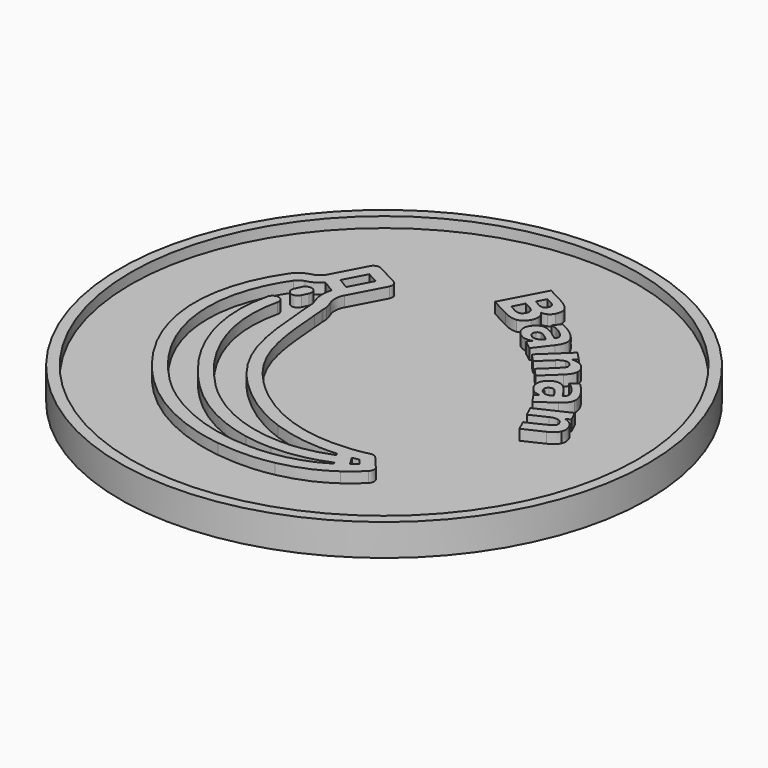
from build123d import *

# Parameters (mm, degrees)
SKETCH_R         = 25
PAD_DEPTH        = 2
SKETCH001_R      = 25
SKETCH001_R_2    = 24
PAD001_DEPTH     = 3
EXTRUDE_DEPTH    = 1
EXTRUDE001_DEPTH = 1


with BuildPart() as body:
    # Sketch → Pad (new body)
    with BuildSketch(Plane.XY):
        Circle(SKETCH_R)
    extrude(amount=PAD_DEPTH)

    # Sketch001 → Pad001 (join)
    with BuildSketch(Plane.XY):
        Circle(SKETCH001_R)
        Circle(SKETCH001_R_2, mode=Mode.SUBTRACT)
    extrude(amount=PAD001_DEPTH)


with BuildPart() as banana:
    # Clone → Extrude (new body)
    with BuildSketch(Plane(origin=(-4.033065, -2.621356, 2), x_dir=(0, 1, 0), z_dir=(0, 0, 1))):
        with BuildLine():
            add(Edge.make_bspline(
                [(-10.418645, -13.683667), (-9.190311, -12.642682)],
                knots=[0, 0, 27.819273, 27.819273], degree=1))
            add(Edge.make_bspline(
                [(-9.190311, -12.642682), (-9.019978, -12.498278), (-8.945779, -12.270356), (-8.998274, -12.053316)],
                knots=[0, 0, 0, 0, 1, 1, 1, 1], degree=3))
            add(Edge.make_bspline(
                [(-8.998274, -12.053316), (-9.134865, -11.489936), (-9.234588, -10.907515), (-9.294606, -10.322084)],
                knots=[0, 0, 0, 0, 1, 1, 1, 1], degree=3))
            add(Edge.make_bspline(
                [(-9.294606, -10.322084), (-9.740147, -5.982604), (-8.269943, -1.984137), (-5.044026, 1.241665)],
                knots=[0, 0, 0, 0, 1, 1, 1, 1], degree=3))
            add(Edge.make_bspline(
                [(-5.044026, 1.241665), (-1.834314, 4.451435), (1.354215, 4.704012), (5.767258, 5.053534)],
                knots=[0, 0, 0, 0, 1, 1, 1, 1], degree=3))
            add(Edge.make_bspline(
                [(5.767258, 5.053534), (6.082922, 5.078537), (6.403911, 5.103946), (6.730629, 5.131032)],
                knots=[0, 0, 0, 0, 1, 1, 1, 1], degree=3))
            add(Edge.make_bspline(
                [(6.730629, 5.131032), (6.767902, 5.1341), (6.815014, 5.135257), (6.864905, 5.136646)],
                knots=[0, 0, 0, 0, 1, 1, 1, 1], degree=3))
            add(Edge.make_bspline(
                [(6.864905, 5.136646), (6.996171, 5.140119), (7.159501, 5.14446), (7.343147, 5.183701)],
                knots=[0, 0, 0, 0, 1, 1, 1, 1], degree=3))
            add(Edge.make_bspline(
                [(7.343147, 5.183701), (7.592656, 5.23689), (7.841182, 5.311494), (8.081837, 5.405429)],
                knots=[0, 0, 0, 0, 1, 1, 1, 1], degree=3))
            add(Edge.make_bspline(
                [(8.081837, 5.405429), (8.579005, 5.599435), (9.141805, 5.563782), (9.625951, 5.307385)],
                knots=[0, 0, 0, 0, 1, 1, 1, 1], degree=3))
            add(Edge.make_bspline(
                [(9.625951, 5.307385), (12.81911, 3.616726)],
                knots=[0, 0, 62.426931, 62.426931], degree=1))
            add(Edge.make_bspline(
                [(12.81911, 3.616726), (12.957553, 3.543453), (13.119262, 3.528173), (13.268876, 3.574243)],
                knots=[0, 0, 0, 0, 1, 1, 1, 1], degree=3))
            add(Edge.make_bspline(
                [(13.268876, 3.574243), (13.418489, 3.620198), (13.543736, 3.723799), (13.616951, 3.862242)],
                knots=[0, 0, 0, 0, 1, 1, 1, 1], degree=3))
            add(Edge.make_bspline(
                [(13.616951, 3.862242), (14.732597, 5.969446)],
                knots=[0, 0, 41.195954, 41.195954], degree=1))
            add(Edge.make_bspline(
                [(14.732597, 5.969446), (14.885162, 6.257386), (14.775195, 6.614722), (14.487139, 6.767345)],
                knots=[0, 0, 0, 0, 1, 1, 1, 1], degree=3))
            add(Edge.make_bspline(
                [(14.487139, 6.767345), (11.424204, 8.389072)],
                knots=[0, 0, 59.881154, 59.881154], degree=1))
            add(Edge.make_bspline(
                [(11.424204, 8.389072), (11.088862, 8.56664), (10.843114, 8.895037), (10.749989, 9.290109)],
                knots=[0, 0, 0, 0, 1, 1, 1, 1], degree=3))
            add(Edge.make_bspline(
                [(10.749989, 9.290109), (10.6079, 9.893366), (10.271979, 10.388797), (9.778631, 10.72275)],
                knots=[0, 0, 0, 0, 1, 1, 1, 1], degree=3))
            add(Edge.make_bspline(
                [(9.778631, 10.72275), (3.541348, 14.945955), (-3.791383, 13.858379), (-9.836224, 7.81348)],
                knots=[0, 0, 0, 0, 1, 1, 1, 1], degree=3))
            add(Edge.make_bspline(
                [(-9.836224, 7.81348), (-12.445052, 5.204595), (-14.164303, 1.677424), (-14.677213, -2.118297)],
                knots=[0, 0, 0, 0, 1, 1, 1, 1], degree=3))
            add(Edge.make_bspline(
                [(-14.677213, -2.118297), (-14.780409, -2.882338), (-14.831978, -3.638102), (-14.831978, -4.382117)],
                knots=[0, 0, 0, 0, 1, 1, 1, 1], degree=3))
            add(Edge.make_bspline(
                [(-14.831978, -4.382117), (-14.831978, -5.419224), (-14.731734, -6.433585), (-14.531593, -7.415014)],
                knots=[0, 0, 0, 0, 1, 1, 1, 1], degree=3))
            add(Edge.make_bspline(
                [(-14.531593, -7.415014), (-14.173853, -9.169396), (-13.513181, -10.730526), (-12.568042, -12.055168)],
                knots=[0, 0, 0, 0, 1, 1, 1, 1], degree=3))
            add(Edge.make_bspline(
                [(-12.568042, -12.055168), (-12.162494, -12.623409), (-11.708271, -13.160281), (-11.21776, -13.650735)],
                knots=[0, 0, 0, 0, 1, 1, 1, 1], degree=3))
            add(Edge.make_bspline(
                [(-11.21776, -13.650735), (-11.000546, -13.867949), (-10.653049, -13.882245), (-10.418645, -13.683667)],
                knots=[0, 0, 0, 0, 1, 1, 1, 1], degree=3))
        make_face()
        with BuildLine():
            add(Edge.make_bspline(
                [(13.413106, 6.000178), (12.849843, 4.936332)],
                knots=[0, 0, 20.798389, 20.798389], degree=1))
            add(Edge.make_bspline(
                [(12.849843, 4.936332), (10.733263, 6.056956)],
                knots=[0, 0, 41.379366, 41.379366], degree=1))
            add(Edge.make_bspline(
                [(10.733263, 6.056956), (10.985203, 6.469102)],
                knots=[0, 0, 8.346092, 8.346092], degree=1))
            add(Edge.make_bspline(
                [(10.985203, 6.469102), (11.362275, 7.086018)],
                knots=[0, 0, 12.492378, 12.492378], degree=1))
            add(Edge.make_bspline(
                [(11.362275, 7.086018), (13.413106, 6.000178)],
                knots=[0, 0, 40.094183, 40.094183], degree=1))
        make_face(mode=Mode.SUBTRACT)
        with BuildLine():
            add(Edge.make_bspline(
                [(-13.656312, -4.389931), (-13.656023, -0.359863), (-12.030707, 3.949347), (-9.001399, 6.978713)],
                knots=[0, 0, 0, 0, 1, 1, 1, 1], degree=3))
            add(Edge.make_bspline(
                [(-9.001399, 6.978713), (-3.388151, 12.591904), (3.385021, 13.626117), (9.116918, 9.745142)],
                knots=[0, 0, 0, 0, 1, 1, 1, 1], degree=3))
            add(Edge.make_bspline(
                [(9.116918, 9.745142), (9.424826, 9.536725), (9.550131, 9.235357), (9.601005, 9.0193)],
                knots=[0, 0, 0, 0, 1, 1, 1, 1], degree=3))
            add(Edge.make_bspline(
                [(9.601005, 9.0193), (9.722085, 8.505869), (9.988842, 8.050662), (10.359374, 7.708896)],
                knots=[0, 0, 0, 0, 1, 1, 1, 1], degree=3))
            add(Edge.make_bspline(
                [(10.359374, 7.708896), (9.661603, 6.56732)],
                knots=[0, 0, 23.116732, 23.116732], degree=1))
            add(Edge.make_bspline(
                [(9.661603, 6.56732), (9.004809, 6.774984), (8.29662, 6.756637), (7.652791, 6.505275)],
                knots=[0, 0, 0, 0, 1, 1, 1, 1], degree=3))
            add(Edge.make_bspline(
                [(7.652791, 6.505275), (7.471345, 6.434491), (7.284285, 6.378292), (7.096762, 6.338299)],
                knots=[0, 0, 0, 0, 1, 1, 1, 1], degree=3))
            add(Edge.make_bspline(
                [(7.096762, 6.338299), (7.019553, 6.321804), (6.933548, 6.319604), (6.83394, 6.316942)],
                knots=[0, 0, 0, 0, 1, 1, 1, 1], degree=3))
            add(Edge.make_bspline(
                [(6.83394, 6.316942), (6.769928, 6.315264), (6.703832, 6.313527), (6.633626, 6.307739)],
                knots=[0, 0, 0, 0, 1, 1, 1, 1], degree=3))
            add(Edge.make_bspline(
                [(6.633626, 6.307739), (6.308065, 6.280884), (5.988408, 6.255476), (5.674075, 6.230589)],
                knots=[0, 0, 0, 0, 1, 1, 1, 1], degree=3))
            add(Edge.make_bspline(
                [(5.674075, 6.230589), (1.184576, 5.874989), (-2.361346, 5.594052), (-5.878851, 2.076605)],
                knots=[0, 0, 0, 0, 1, 1, 1, 1], degree=3))
            add(Edge.make_bspline(
                [(-5.878851, 2.076605), (-7.641683, 0.313773), (-8.927837, -1.684042), (-9.701659, -3.861278)],
                knots=[0, 0, 0, 0, 1, 1, 1, 1], degree=3))
            add(Edge.make_bspline(
                [(-9.701659, -3.861278), (-10.403655, -5.836405), (-10.672843, -7.922368), (-10.503088, -10.067597)],
                knots=[0, 0, 0, 0, 1, 1, 1, 1], degree=3))
            add(Edge.make_bspline(
                [(-10.503088, -10.067597), (-10.540014, -10.08988)],
                knots=[0, 0, 0.745164, 0.745164], degree=1))
            add(Edge.make_bspline(
                [(-10.540014, -10.08988), (-10.737319, -10.208876)],
                knots=[0, 0, 3.981007, 3.981007], degree=1))
            add(Edge.make_bspline(
                [(-10.737319, -10.208876), (-11.331836, -8.74064), (-11.622844, -7.201098), (-11.622729, -5.659531)],
                knots=[0, 0, 0, 0, 1, 1, 1, 1], degree=3))
            add(Edge.make_bspline(
                [(-11.622729, -5.659531), (-11.622555, -2.272193), (-10.221688, 1.121916), (-7.572925, 3.77068)],
                knots=[0, 0, 0, 0, 1, 1, 1, 1], degree=3))
            add(Edge.make_bspline(
                [(-7.572925, 3.77068), (-3.44869, 7.894972), (1.249804, 9.575908), (5.657233, 8.503843)],
                knots=[0, 0, 0, 0, 1, 1, 1, 1], degree=3))
            add(Edge.make_bspline(
                [(5.657233, 8.503843), (5.973997, 8.42675), (6.293191, 8.621103), (6.370284, 8.937924)],
                knots=[0, 0, 0, 0, 1, 1, 1, 1], degree=3))
            add(Edge.make_bspline(
                [(6.370284, 8.937924), (6.447434, 9.254688), (6.253024, 9.573882), (5.936203, 9.650975)],
                knots=[0, 0, 0, 0, 1, 1, 1, 1], degree=3))
            add(Edge.make_bspline(
                [(5.936203, 9.650975), (1.113098, 10.824152), (-3.981048, 9.03238), (-8.40775, 4.605505)],
                knots=[0, 0, 0, 0, 1, 1, 1, 1], degree=3))
            add(Edge.make_bspline(
                [(-8.40775, 4.605505), (-10.567796, 2.445459), (-11.999453, -0.20915), (-12.5479, -3.071366)],
                knots=[0, 0, 0, 0, 1, 1, 1, 1], degree=3))
            add(Edge.make_bspline(
                [(-12.5479, -3.071366), (-12.714472, -3.940744), (-12.797236, -4.811626), (-12.797236, -5.675795)],
                knots=[0, 0, 0, 0, 1, 1, 1, 1], degree=3))
            add(Edge.make_bspline(
                [(-12.797236, -5.675795), (-12.797179, -7.449046), (-12.447946, -9.1922), (-11.760303, -10.825676)],
                knots=[0, 0, 0, 0, 1, 1, 1, 1], degree=3))
            add(Edge.make_bspline(
                [(-11.760303, -10.825676), (-11.91119, -10.91666)],
                knots=[0, 0, 3.044279, 3.044279], degree=1))
            add(Edge.make_bspline(
                [(-11.91119, -10.91666), (-13.089807, -9.051615), (-13.656428, -6.769622), (-13.656312, -4.389931)],
                knots=[0, 0, 0, 0, 1, 1, 1, 1], degree=3))
        make_face(mode=Mode.SUBTRACT)
        with BuildLine():
            add(Edge.make_bspline(
                [(-11.22129, -11.879336), (-10.996205, -11.743555)],
                knots=[0, 0, 4.54181, 4.54181], degree=1))
            add(Edge.make_bspline(
                [(-10.996205, -11.743555), (-10.34624, -11.351609)],
                knots=[0, 0, 13.113843, 13.113843], degree=1))
            add(Edge.make_bspline(
                [(-10.34624, -11.351609), (-10.311109, -11.560489), (-10.271463, -11.768211), (-10.227302, -11.974024)],
                knots=[0, 0, 0, 0, 1, 1, 1, 1], degree=3))
            add(Edge.make_bspline(
                [(-10.227302, -11.974024), (-10.757286, -12.423153)],
                knots=[0, 0, 12.002843, 12.002843], degree=1))
            add(Edge.make_bspline(
                [(-10.757286, -12.423153), (-10.91726, -12.246974), (-11.07214, -12.065528), (-11.22129, -11.879336)],
                knots=[0, 0, 0, 0, 1, 1, 1, 1], degree=3))
        make_face(mode=Mode.SUBTRACT)
        with BuildLine():
            add(Edge.make_bspline(
                [(8.992597, 7.828181), (9.138506, 8.11971), (9.02032, 8.474325), (8.728734, 8.620177)],
                knots=[0, 0, 0, 0, 1, 1, 1, 1], degree=3))
            add(Edge.make_bspline(
                [(8.728734, 8.620177), (8.531429, 8.718858), (8.330305, 8.813661), (8.130917, 8.901924)],
                knots=[0, 0, 0, 0, 1, 1, 1, 1], degree=3))
            add(Edge.make_bspline(
                [(8.130917, 8.901924), (7.832906, 9.033885), (7.484194, 8.899262), (7.352233, 8.601193)],
                knots=[0, 0, 0, 0, 1, 1, 1, 1], degree=3))
            add(Edge.make_bspline(
                [(7.352233, 8.601193), (7.317796, 8.523521), (7.301533, 8.442435), (7.301533, 8.362564)],
                knots=[0, 0, 0, 0, 1, 1, 1, 1], degree=3))
            add(Edge.make_bspline(
                [(7.301533, 8.362564), (7.301533, 8.136089), (7.432625, 7.920091), (7.652965, 7.822509)],
                knots=[0, 0, 0, 0, 1, 1, 1, 1], degree=3))
            add(Edge.make_bspline(
                [(7.652965, 7.822509), (7.835626, 7.741654), (8.01985, 7.654838), (8.200602, 7.564376)],
                knots=[0, 0, 0, 0, 1, 1, 1, 1], degree=3))
            add(Edge.make_bspline(
                [(8.200602, 7.564376), (8.49213, 7.418466), (8.846804, 7.536536), (8.992597, 7.828181)],
                knots=[0, 0, 0, 0, 1, 1, 1, 1], degree=3))
        make_face()
    extrude(amount=EXTRUDE_DEPTH)


with BuildPart() as bananatext:
    # Clone001 → Extrude001 (new body)
    with BuildSketch(Plane(origin=(8.450454, 7.78102, 2), x_dir=(0, 1, 0), z_dir=(0, 0, 1))):
        with BuildLine():
            add(Edge.make_bspline(
                [(6.145376, 4.738676), (5.87365, 4.456898), (5.517394, 4.411504)],
                knots=[0, 0, 0, 1, 1, 1], degree=2))
            add(Edge.make_bspline(
                [(5.517394, 4.411504), (5.161138, 4.366107), (4.782906, 4.565281)],
                knots=[0, 0, 0, 1, 1, 1], degree=2))
            add(Edge.make_bspline(
                [(4.782906, 4.565281), (4.203486, 4.87039), (4.125373, 5.411765)],
                knots=[0, 0, 0, 1, 1, 1], degree=2))
            add(Edge.make_bspline(
                [(4.125373, 5.411765), (4.047262, 5.95314), (4.468198, 6.752525)],
                knots=[0, 0, 0, 1, 1, 1], degree=2))
            add(Edge.make_bspline(
                [(4.468198, 6.752525), (5.370815, 8.466643)],
                knots=[0, 0, 1.761132, 1.761132], degree=1))
            add(Edge.make_bspline(
                [(5.370815, 8.466643), (9.375787, 6.357712)],
                knots=[0, 0, 4.114818, 4.114818], degree=1))
            add(Edge.make_bspline(
                [(9.375787, 6.357712), (8.559337, 4.807227)],
                knots=[0, 0, 1.593011, 1.593011], degree=1))
            add(Edge.make_bspline(
                [(8.559337, 4.807227), (8.120034, 3.97297), (7.671535, 3.732881)],
                knots=[0, 0, 0, 1, 1, 1], degree=2))
            add(Edge.make_bspline(
                [(7.671535, 3.732881), (7.221624, 3.49011), (6.666347, 3.782513)],
                knots=[0, 0, 0, 1, 1, 1], degree=2))
            add(Edge.make_bspline(
                [(6.666347, 3.782513), (6.373954, 3.93648), (6.239441, 4.182054)],
                knots=[0, 0, 0, 1, 1, 1], degree=2))
            add(Edge.make_bspline(
                [(6.239441, 4.182054), (6.107611, 4.426215), (6.14538, 4.738682)],
                knots=[0, 0, 0, 1, 1, 1], degree=2))
            add(Edge.make_bspline(
                [(6.14538, 4.738682), (6.145376, 4.738676)],
                knots=[0, 0, 6e-06, 6e-06], degree=1))
        make_face()
        with BuildLine():
            add(Edge.make_bspline(
                [(6.9806, 5.570029), (6.852058, 5.325921), (6.892963, 5.143342)],
                knots=[0, 0, 0, 1, 1, 1], degree=2))
            add(Edge.make_bspline(
                [(6.892963, 5.143342), (6.933872, 4.960762), (7.143109, 4.850584)],
                knots=[0, 0, 0, 1, 1, 1], degree=2))
            add(Edge.make_bspline(
                [(7.143109, 4.850584), (7.349661, 4.741816), (7.523351, 4.811391)],
                knots=[0, 0, 0, 1, 1, 1], degree=2))
            add(Edge.make_bspline(
                [(7.523351, 4.811391), (7.699723, 4.879558), (7.828264, 5.123662)],
                knots=[0, 0, 0, 1, 1, 1], degree=2))
            add(Edge.make_bspline(
                [(7.828264, 5.123662), (8.129138, 5.695034)],
                knots=[0, 0, 0.587044, 0.587044], degree=1))
            add(Edge.make_bspline(
                [(8.129138, 5.695034), (7.281467, 6.141398)],
                knots=[0, 0, 0.87092, 0.87092], degree=1))
            add(Edge.make_bspline(
                [(7.281467, 6.141398), (6.9806, 5.570029)],
                knots=[0, 0, 0.587039, 0.587039], degree=1))
        make_face(mode=Mode.SUBTRACT)
        with BuildLine():
            add(Edge.make_bspline(
                [(5.210565, 6.457548), (5.046709, 6.146378), (5.096224, 5.921579)],
                knots=[0, 0, 0, 1, 1, 1], degree=2))
            add(Edge.make_bspline(
                [(5.096224, 5.921579), (5.144327, 5.694097), (5.409894, 5.554255)],
                knots=[0, 0, 0, 1, 1, 1], degree=2))
            add(Edge.make_bspline(
                [(5.409894, 5.554255), (5.670096, 5.417238), (5.880784, 5.505019)],
                knots=[0, 0, 0, 1, 1, 1], degree=2))
            add(Edge.make_bspline(
                [(5.880784, 5.505019), (6.094154, 5.591391), (6.259422, 5.905242)],
                knots=[0, 0, 0, 1, 1, 1], degree=2))
            add(Edge.make_bspline(
                [(6.259422, 5.905242), (6.578658, 6.511487)],
                knots=[0, 0, 0.622873, 0.622873], degree=1))
            add(Edge.make_bspline(
                [(6.578658, 6.511487), (5.5298, 7.063792)],
                knots=[0, 0, 1.077625, 1.077625], degree=1))
            add(Edge.make_bspline(
                [(5.5298, 7.063792), (5.210565, 6.457548)],
                knots=[0, 0, 0.622872, 0.622872], degree=1))
        make_face(mode=Mode.SUBTRACT)
        with BuildLine():
            add(Edge.make_bspline(
                [(2.707192, 0.667836), (1.165812, 1.841318)],
                knots=[0, 0, 1.761131, 1.761131], degree=1))
            add(Edge.make_bspline(
                [(1.165812, 1.841318), (1.828765, 2.712113)],
                knots=[0, 0, 0.994942, 0.994942], degree=1))
            add(Edge.make_bspline(
                [(1.828765, 2.712113), (2.229186, 2.407266)],
                knots=[0, 0, 0.457507, 0.457507], degree=1))
            add(Edge.make_bspline(
                [(2.229186, 2.407266), (2.115367, 2.768258), (2.167278, 3.071667)],
                knots=[0, 0, 0, 1, 1, 1], degree=2))
            add(Edge.make_bspline(
                [(2.167278, 3.071667), (2.221596, 3.373239), (2.458497, 3.68441)],
                knots=[0, 0, 0, 1, 1, 1], degree=2))
            add(Edge.make_bspline(
                [(2.458497, 3.68441), (2.778037, 4.104128), (3.221838, 4.181576)],
                knots=[0, 0, 0, 1, 1, 1], degree=2))
            add(Edge.make_bspline(
                [(3.221838, 4.181576), (3.666215, 4.25477), (4.056988, 3.957271)],
                knots=[0, 0, 0, 1, 1, 1], degree=2))
            add(Edge.make_bspline(
                [(4.056988, 3.957271), (4.532187, 3.595494), (4.506189, 3.100898)],
                knots=[0, 0, 0, 1, 1, 1], degree=2))
            add(Edge.make_bspline(
                [(4.506189, 3.100898), (4.478348, 2.60389), (3.945787, 1.904359)],
                knots=[0, 0, 0, 1, 1, 1], degree=2))
            add(Edge.make_bspline(
                [(3.945787, 1.904359), (3.558299, 1.395389)],
                knots=[0, 0, 0.581532, 0.581532], degree=1))
            add(Edge.make_bspline(
                [(3.558299, 1.395389), (3.625839, 1.343964)],
                knots=[0, 0, 0.077172, 0.077172], degree=1))
            add(Edge.make_bspline(
                [(3.625839, 1.343964), (3.830874, 1.187866), (4.04799, 1.277865)],
                knots=[0, 0, 0, 1, 1, 1], degree=2))
            add(Edge.make_bspline(
                [(4.04799, 1.277865), (4.267518, 1.366019), (4.528292, 1.708552)],
                knots=[0, 0, 0, 1, 1, 1], degree=2))
            add(Edge.make_bspline(
                [(4.528292, 1.708552), (4.739482, 1.985953), (4.865809, 2.266996)],
                knots=[0, 0, 0, 1, 1, 1], degree=2))
            add(Edge.make_bspline(
                [(4.865809, 2.266996), (4.992137, 2.548039), (5.037273, 2.837551)],
                knots=[0, 0, 0, 1, 1, 1], degree=2))
            add(Edge.make_bspline(
                [(5.037273, 2.837551), (5.695798, 2.336204)],
                knots=[0, 0, 0.752409, 0.752409], degree=1))
            add(Edge.make_bspline(
                [(5.695798, 2.336204), (5.552149, 2.007383), (5.372893, 1.70186)],
                knots=[0, 0, 0, 1, 1, 1], degree=2))
            add(Edge.make_bspline(
                [(5.372893, 1.70186), (5.196048, 1.394501), (4.983022, 1.114689)],
                knots=[0, 0, 0, 1, 1, 1], degree=2))
            add(Edge.make_bspline(
                [(4.983022, 1.114689), (4.426582, 0.383799), (3.891038, 0.280939)],
                knots=[0, 0, 0, 1, 1, 1], degree=2))
            add(Edge.make_bspline(
                [(3.891038, 0.280939), (3.35607, 0.173832), (2.707195, 0.667834)],
                knots=[0, 0, 0, 1, 1, 1], degree=2))
            add(Edge.make_bspline(
                [(2.707195, 0.667834), (2.707192, 0.667836)],
                knots=[0, 0, 3e-06, 3e-06], degree=1))
        make_face()
        with BuildLine():
            add(Edge.make_bspline(
                [(3.386079, 2.235215), (3.59176, 2.505379), (3.604774, 2.712658)],
                knots=[0, 0, 0, 1, 1, 1], degree=2))
            add(Edge.make_bspline(
                [(3.604774, 2.712658), (3.61595, 2.917524), (3.43745, 3.05342)],
                knots=[0, 0, 0, 1, 1, 1], degree=2))
            add(Edge.make_bspline(
                [(3.43745, 3.05342), (3.273423, 3.178298), (3.096708, 3.141365)],
                knots=[0, 0, 0, 1, 1, 1], degree=2))
            add(Edge.make_bspline(
                [(3.096708, 3.141365), (2.920569, 3.100192), (2.771818, 2.904804)],
                knots=[0, 0, 0, 1, 1, 1], degree=2))
            add(Edge.make_bspline(
                [(2.771818, 2.904804), (2.586338, 2.661173), (2.633301, 2.36251)],
                knots=[0, 0, 0, 1, 1, 1], degree=2))
            add(Edge.make_bspline(
                [(2.633301, 2.36251), (2.68268, 2.06201), (2.945603, 1.861839)],
                knots=[0, 0, 0, 1, 1, 1], degree=2))
            add(Edge.make_bspline(
                [(2.945603, 1.861839), (3.044504, 1.786544)],
                knots=[0, 0, 0.113001, 0.113001], degree=1))
            add(Edge.make_bspline(
                [(3.044504, 1.786544), (3.386079, 2.235215)],
                knots=[0, 0, 0.512633, 0.512633], degree=1))
        make_face(mode=Mode.SUBTRACT)
        with BuildLine():
            add(Edge.make_bspline(
                [(-0.561453, -2.768487), (-1.984398, -1.268412)],
                knots=[0, 0, 1.879643, 1.879643], degree=1))
            add(Edge.make_bspline(
                [(-1.984398, -1.268412), (-1.192569, -0.517296)],
                knots=[0, 0, 0.992187, 0.992187], degree=1))
            add(Edge.make_bspline(
                [(-1.192569, -0.517296), (-0.960975, -0.761444)],
                knots=[0, 0, 0.305924, 0.305924], degree=1))
            add(Edge.make_bspline(
                [(-0.960975, -0.761444), (-0.103453, -1.665449)],
                knots=[0, 0, 1.132747, 1.132747], degree=1))
            add(Edge.make_bspline(
                [(-0.103453, -1.665449), (0.199079, -1.98438), (0.329229, -2.090749)],
                knots=[0, 0, 0, 1, 1, 1], degree=2))
            add(Edge.make_bspline(
                [(0.329229, -2.090749), (0.45718, -2.199209), (0.54662, -2.223008)],
                knots=[0, 0, 0, 1, 1, 1], degree=2))
            add(Edge.make_bspline(
                [(0.54662, -2.223008), (0.665834, -2.256173), (0.78466, -2.222856)],
                knots=[0, 0, 0, 1, 1, 1], degree=2))
            add(Edge.make_bspline(
                [(0.78466, -2.222856), (0.905571, -2.191737), (1.00675, -2.09576)],
                knots=[0, 0, 0, 1, 1, 1], degree=2))
            add(Edge.make_bspline(
                [(1.00675, -2.09576), (1.253096, -1.862079), (1.212346, -1.53719)],
                knots=[0, 0, 0, 1, 1, 1], degree=2))
            add(Edge.make_bspline(
                [(1.212346, -1.53719), (1.173681, -1.2145), (0.854459, -0.877972)],
                knots=[0, 0, 0, 1, 1, 1], degree=2))
            add(Edge.make_bspline(
                [(0.854459, -0.877972), (-0.295163, 0.333966)],
                knots=[0, 0, 1.518597, 1.518597], degree=1))
            add(Edge.make_bspline(
                [(-0.295163, 0.333966), (0.492267, 1.080908)],
                knots=[0, 0, 0.986675, 0.986675], degree=1))
            add(Edge.make_bspline(
                [(0.492267, 1.080908), (2.829067, -1.38256)],
                knots=[0, 0, 3.086803, 3.086803], degree=1))
            add(Edge.make_bspline(
                [(2.829067, -1.38256), (2.041637, -2.129502)],
                knots=[0, 0, 0.986675, 0.986675], degree=1))
            add(Edge.make_bspline(
                [(2.041637, -2.129502), (1.699463, -1.76878)],
                knots=[0, 0, 0.451996, 0.451996], degree=1))
            add(Edge.make_bspline(
                [(1.699463, -1.76878), (1.725775, -2.153333), (1.621594, -2.444377)],
                knots=[0, 0, 0, 1, 1, 1], degree=2))
            add(Edge.make_bspline(
                [(1.621594, -2.444377), (1.519503, -2.737619), (1.277551, -2.967126)],
                knots=[0, 0, 0, 1, 1, 1], degree=2))
            add(Edge.make_bspline(
                [(1.277551, -2.967126), (0.850843, -3.371893), (0.382606, -3.318793)],
                knots=[0, 0, 0, 1, 1, 1], degree=2))
            add(Edge.make_bspline(
                [(0.382606, -3.318793), (-0.087831, -3.267775), (-0.56145, -2.768487)],
                knots=[0, 0, 0, 1, 1, 1], degree=2))
            add(Edge.make_bspline(
                [(-0.56145, -2.768487), (-0.561453, -2.768487)],
                knots=[0, 0, 3e-06, 3e-06], degree=1))
        make_face()
        with BuildLine():
            add(Edge.make_bspline(
                [(-4.315785, -5.286802), (-5.407532, -3.686491)],
                knots=[0, 0, 1.761129, 1.761129], degree=1))
            add(Edge.make_bspline(
                [(-5.407532, -3.686491), (-4.503442, -3.069713)],
                knots=[0, 0, 0.994943, 0.994943], degree=1))
            add(Edge.make_bspline(
                [(-4.503442, -3.069713), (-4.219827, -3.485445)],
                knots=[0, 0, 0.457509, 0.457509], degree=1))
            add(Edge.make_bspline(
                [(-4.219827, -3.485445), (-4.213777, -3.106981), (-4.068683, -2.835508)],
                knots=[0, 0, 0, 1, 1, 1], degree=2))
            add(Edge.make_bspline(
                [(-4.068683, -2.835508), (-3.92188, -2.566538), (-3.598811, -2.346138)],
                knots=[0, 0, 0, 1, 1, 1], degree=2))
            add(Edge.make_bspline(
                [(-3.598811, -2.346138), (-3.163045, -2.048855), (-2.717504, -2.115571)],
                knots=[0, 0, 0, 1, 1, 1], degree=2))
            add(Edge.make_bspline(
                [(-2.717504, -2.115571), (-2.272758, -2.186499), (-1.995978, -2.592213)],
                knots=[0, 0, 0, 1, 1, 1], degree=2))
            add(Edge.make_bspline(
                [(-1.995978, -2.592213), (-1.659398, -3.085581), (-1.840309, -3.546637)],
                knots=[0, 0, 0, 1, 1, 1], degree=2))
            add(Edge.make_bspline(
                [(-1.840309, -3.546637), (-2.023724, -4.009405), (-2.750001, -4.504878)],
                knots=[0, 0, 0, 1, 1, 1], degree=2))
            add(Edge.make_bspline(
                [(-2.750001, -4.504878), (-3.27843, -4.86537)],
                knots=[0, 0, 0.581528, 0.581528], degree=1))
            add(Edge.make_bspline(
                [(-3.27843, -4.86537), (-3.230591, -4.93544)],
                knots=[0, 0, 0.07713, 0.07713], degree=1))
            add(Edge.make_bspline(
                [(-3.230591, -4.93544), (-3.085367, -5.148312), (-2.850939, -5.131515)],
                knots=[0, 0, 0, 1, 1, 1], degree=2))
            add(Edge.make_bspline(
                [(-2.850939, -5.131515), (-2.614803, -5.117215), (-2.259178, -4.87461)],
                knots=[0, 0, 0, 1, 1, 1], degree=2))
            add(Edge.make_bspline(
                [(-2.259178, -4.87461), (-1.971171, -4.678128), (-1.762531, -4.451385)],
                knots=[0, 0, 0, 1, 1, 1], degree=2))
            add(Edge.make_bspline(
                [(-1.762531, -4.451385), (-1.553892, -4.224642), (-1.419609, -3.964217)],
                knots=[0, 0, 0, 1, 1, 1], degree=2))
            add(Edge.make_bspline(
                [(-1.419609, -3.964217), (-0.953182, -4.647911)],
                knots=[0, 0, 0.752402, 0.752402], degree=1))
            add(Edge.make_bspline(
                [(-0.953182, -4.647911), (-1.19335, -4.914518), (-1.459942, -5.147773)],
                knots=[0, 0, 0, 1, 1, 1], degree=2))
            add(Edge.make_bspline(
                [(-1.459942, -5.147773), (-1.724824, -5.383525), (-2.015335, -5.581712)],
                knots=[0, 0, 0, 1, 1, 1], degree=2))
            add(Edge.make_bspline(
                [(-2.015335, -5.581712), (-2.77417, -6.099394), (-3.314783, -6.027806)],
                knots=[0, 0, 0, 1, 1, 1], degree=2))
            add(Edge.make_bspline(
                [(-3.314783, -6.027806), (-3.856192, -5.960376), (-4.315785, -5.286747)],
                knots=[0, 0, 0, 1, 1, 1], degree=2))
            add(Edge.make_bspline(
                [(-4.315785, -5.286747), (-4.315785, -5.286802)],
                knots=[0, 0, 5e-05, 5e-05], degree=1))
        make_face()
        with BuildLine():
            add(Edge.make_bspline(
                [(-3.176526, -4.014146), (-2.896033, -3.822793), (-2.818207, -3.63024)],
                knots=[0, 0, 0, 1, 1, 1], degree=2))
            add(Edge.make_bspline(
                [(-2.818207, -3.63024), (-2.742879, -3.439396), (-2.869313, -3.254069)],
                knots=[0, 0, 0, 1, 1, 1], degree=2))
            add(Edge.make_bspline(
                [(-2.869313, -3.254069), (-2.985492, -3.08377), (-3.164823, -3.062981)],
                knots=[0, 0, 0, 1, 1, 1], degree=2))
            add(Edge.make_bspline(
                [(-3.164823, -3.062981), (-3.344949, -3.046404), (-3.547807, -3.184796)],
                knots=[0, 0, 0, 1, 1, 1], degree=2))
            add(Edge.make_bspline(
                [(-3.547807, -3.184796), (-3.800751, -3.357358), (-3.850541, -3.655563)],
                knots=[0, 0, 0, 1, 1, 1], degree=2))
            add(Edge.make_bspline(
                [(-3.850541, -3.655563), (-3.898622, -3.956275), (-3.712394, -4.229251)],
                knots=[0, 0, 0, 1, 1, 1], degree=2))
            add(Edge.make_bspline(
                [(-3.712394, -4.229251), (-3.642346, -4.331991)],
                knots=[0, 0, 0.113043, 0.113043], degree=1))
            add(Edge.make_bspline(
                [(-3.642346, -4.331991), (-3.176526, -4.014146)],
                knots=[0, 0, 0.512661, 0.512661], degree=1))
        make_face(mode=Mode.SUBTRACT)
        with BuildLine():
            add(Edge.make_bspline(
                [(-8.496368, -7.518735), (-9.375787, -5.64747)],
                knots=[0, 0, 1.879645, 1.879645], degree=1))
            add(Edge.make_bspline(
                [(-9.375787, -5.64747), (-8.388025, -5.183259)],
                knots=[0, 0, 0.992187, 0.992187], degree=1))
            add(Edge.make_bspline(
                [(-8.388025, -5.183259), (-8.244893, -5.487816)],
                knots=[0, 0, 0.305922, 0.305922], degree=1))
            add(Edge.make_bspline(
                [(-8.244893, -5.487816), (-7.71492, -6.615514)],
                knots=[0, 0, 1.132748, 1.132748], degree=1))
            add(Edge.make_bspline(
                [(-7.71492, -6.615514), (-7.527948, -7.013362), (-7.437821, -7.155251)],
                knots=[0, 0, 0, 1, 1, 1], degree=2))
            add(Edge.make_bspline(
                [(-7.437821, -7.155251), (-7.350437, -7.298416), (-7.27301, -7.349126)],
                knots=[0, 0, 0, 1, 1, 1], degree=2))
            add(Edge.make_bspline(
                [(-7.27301, -7.349126), (-7.170259, -7.418096), (-7.046983, -7.423816)],
                knots=[0, 0, 0, 1, 1, 1], degree=2))
            add(Edge.make_bspline(
                [(-7.046983, -7.423816), (-6.922417, -7.432616), (-6.796203, -7.372996)],
                knots=[0, 0, 0, 1, 1, 1], degree=2))
            add(Edge.make_bspline(
                [(-6.796203, -7.372996), (-6.488899, -7.228577), (-6.425481, -6.907333)],
                knots=[0, 0, 0, 1, 1, 1], degree=2))
            add(Edge.make_bspline(
                [(-6.425481, -6.907333), (-6.360768, -6.58885), (-6.558061, -6.169046)],
                knots=[0, 0, 0, 1, 1, 1], degree=2))
            add(Edge.make_bspline(
                [(-6.558061, -6.169046), (-7.26856, -4.657217)],
                knots=[0, 0, 1.5186, 1.5186], degree=1))
            add(Edge.make_bspline(
                [(-7.26856, -4.657217), (-6.286284, -4.195591)],
                knots=[0, 0, 0.986673, 0.986673], degree=1))
            add(Edge.make_bspline(
                [(-6.286284, -4.195591), (-4.842078, -7.268628)],
                knots=[0, 0, 3.086801, 3.086801], degree=1))
            add(Edge.make_bspline(
                [(-4.842078, -7.268628), (-5.824353, -7.730265)],
                knots=[0, 0, 0.986677, 0.986677], degree=1))
            add(Edge.make_bspline(
                [(-5.824353, -7.730265), (-6.035825, -7.280277)],
                knots=[0, 0, 0.452002, 0.452002], degree=1))
            add(Edge.make_bspline(
                [(-6.035825, -7.280277), (-6.131701, -7.653617), (-6.322073, -7.897179)],
                knots=[0, 0, 0, 1, 1, 1], degree=2))
            add(Edge.make_bspline(
                [(-6.322073, -7.897179), (-6.511153, -8.143469), (-6.812969, -8.285314)],
                knots=[0, 0, 0, 1, 1, 1], degree=2))
            add(Edge.make_bspline(
                [(-6.812969, -8.285314), (-7.345263, -8.535476), (-7.77309, -8.337894)],
                knots=[0, 0, 0, 1, 1, 1], degree=2))
            add(Edge.make_bspline(
                [(-7.77309, -8.337894), (-8.203658, -8.141621), (-8.496368, -7.51879)],
                knots=[0, 0, 0, 1, 1, 1], degree=2))
            add(Edge.make_bspline(
                [(-8.496368, -7.51879), (-8.496368, -7.518735)],
                knots=[0, 0, 5e-05, 5e-05], degree=1))
        make_face()
    extrude(amount=EXTRUDE001_DEPTH)


solid = Compound([body.part, banana.part, bananatext.part])
